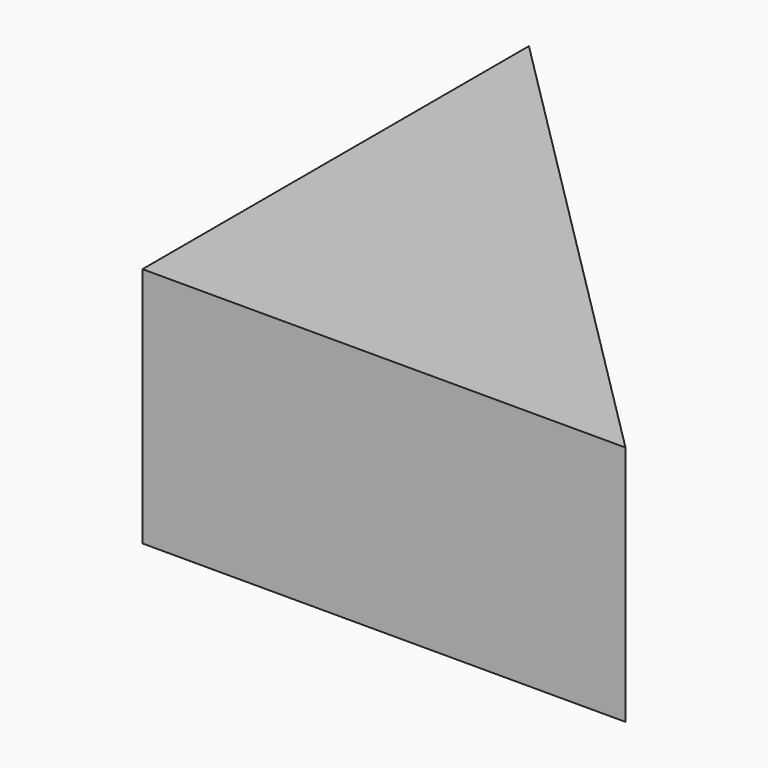
from build123d import *

# Parameters (mm, degrees)
F1_DEPTH = 15
F3_D     = 6


with BuildPart() as f1:
    # F0 (on Top) → F1 (new body)
    with BuildSketch(Plane.XY):
        Polygon((30, 15.2647063509), (0, 45.2647063509), (0, 15.2647063509), align=None)
    extrude(amount=F1_DEPTH)

    # F3 (through all)
    with Locations(Plane(origin=(0, 0, 0), x_dir=(0, 1, 0), z_dir=(-1, 0, 0))):
        with Locations((30.2647063509, -7.5615341775)):
            Hole(F3_D / 2)


solid = f1.part
